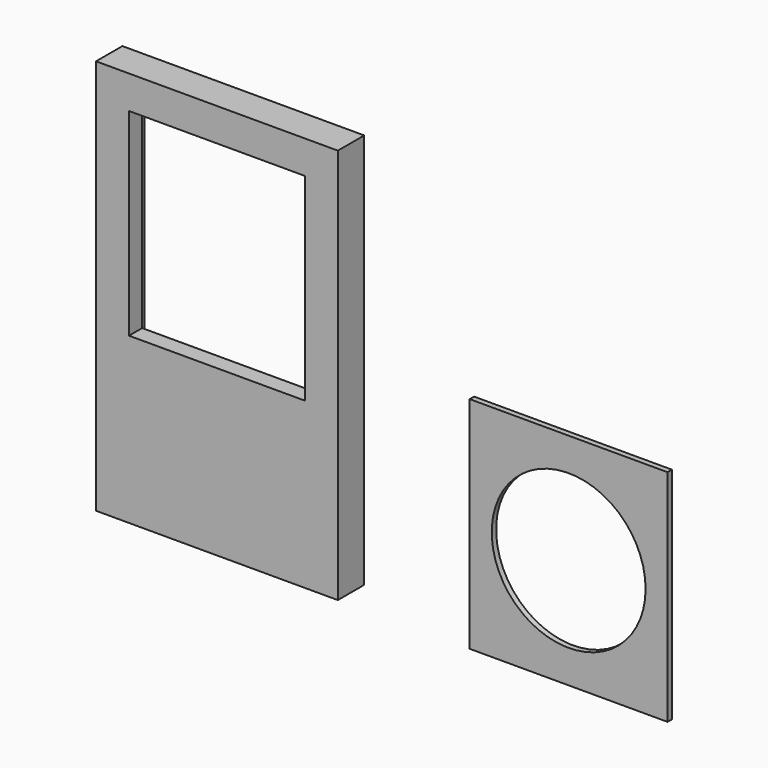
from build123d import *

# Parameters (mm, degrees)
F0_W       = 139.7
F0_H       = 228.6
F1_DEPTH   = 19.05
F2_W       = 101.6
F2_H       = 114.3
F1_FACE1_W = 139.7
F1_FACE1_H = 228.6
F3_DEPTH   = 19.05
F4_W       = 114.3
F4_H       = 127
F5_DEPTH   = 9.525
F6_W       = 114.3
F6_H       = 127
F7_DEPTH   = 3.175
F8_R       = 44.45
F9_DEPTH   = 25.4


with BuildPart() as f1:
    # F0 (on Front) → F1 (new body)
    with BuildSketch(Plane.XZ):
        with Locations((69.85, 114.3)):
            Rectangle(F0_W, F0_H)
    extrude(amount=-F1_DEPTH)

    # F2 (on face) + F1_face1 (on face) → F3 (cut)
    with BuildSketch(Plane(origin=(0, 19.05, 0), x_dir=(-1, 0, 0), z_dir=(0, 1, 0))):
        with Locations((-69.85, 152.4)):
            Rectangle(F2_W, F2_H)
    with BuildSketch(Plane(origin=(69.85, 0, 114.3), x_dir=(1, 0, 0), z_dir=(0, -1, 0))):
        Rectangle(F1_FACE1_W, F1_FACE1_H)
    extrude(amount=-F3_DEPTH, dir=(0, 1, 0), mode=Mode.SUBTRACT)

    # F4 (on face) → F5 (cut)
    with BuildSketch(Plane(origin=(0, 19.05, 0), x_dir=(-1, 0, 0), z_dir=(0, 1, 0))):
        with Locations((-69.85, 152.4)):
            Rectangle(F4_W, F4_H)
    extrude(amount=-F5_DEPTH, mode=Mode.SUBTRACT)


with BuildPart() as f7:
    # F6 (on Front) → F7 (new body)
    with BuildSketch(Plane.XZ):
        with Locations((273.05, 63.5)):
            Rectangle(F6_W, F6_H)
    extrude(amount=-F7_DEPTH)

    # F8 (on face) → F9 (cut)
    with BuildSketch(Plane.XZ):
        with Locations((273.05, 63.5)):
            Circle(F8_R)
    extrude(amount=-F9_DEPTH, mode=Mode.SUBTRACT)


solid = Compound([f1.part, f7.part])
